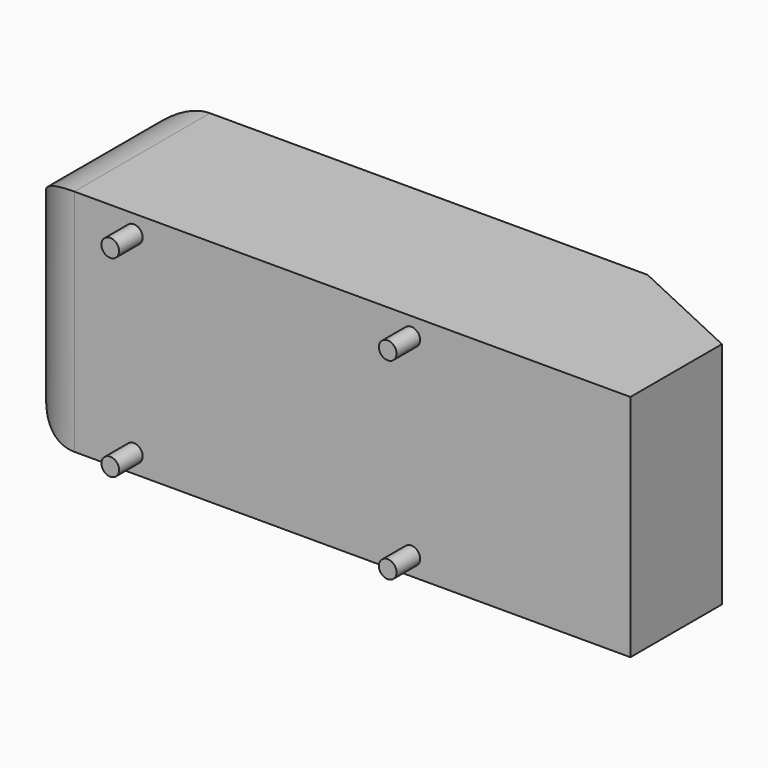
from build123d import *

# Parameters (mm, degrees)
F0_W     = 1044
F0_H     = 389
F1_DEPTH = 288
F2_R     = 100
F4_DEPTH = 389.001
F5_R     = 15
F6_DEPTH = 50


with BuildPart() as f1:
    # F0 (on Front) → F1 (new body)
    with BuildSketch(Plane.XZ):
        with Locations((12.094161, 0)):
            Rectangle(F0_W, F0_H)
    extrude(amount=-F1_DEPTH)

    # F2
    f2_edges = [f1.edges().sort_by_distance(p)[0] for p in [
        (-509.905839, 144, 194.5),
        (-509.905839, 288, 0),
        (-509.905839, 144, -194.5),
        (-509.905839, 0, 0),
    ]]
    fillet(f2_edges, radius=F2_R)

    # F3 (on face) → F4 (cut, through all)
    with BuildSketch(Plane.XY.offset(194.5)):
        Polygon((534.094161, 288), (332.893832, 288), (534.094161, 194.178746), align=None)
    extrude(amount=-F4_DEPTH, mode=Mode.SUBTRACT)

    # F5 (on face) → F6 (join)
    with BuildSketch(Plane.XZ):
        with Locations((162.094161, -163.5)):
            Circle(F5_R)
        with Locations((-308.905839, -163.5)):
            Circle(F5_R)
        with Locations((162.094161, 163.5)):
            Circle(F5_R)
        with Locations((-308.905839, 163.5)):
            Circle(F5_R)
    extrude(amount=F6_DEPTH)


with BuildPart() as f1_1:
    # F7: moved
    add(f1.part.moved(Location((0, 50, 0))))


solid = f1_1.part
